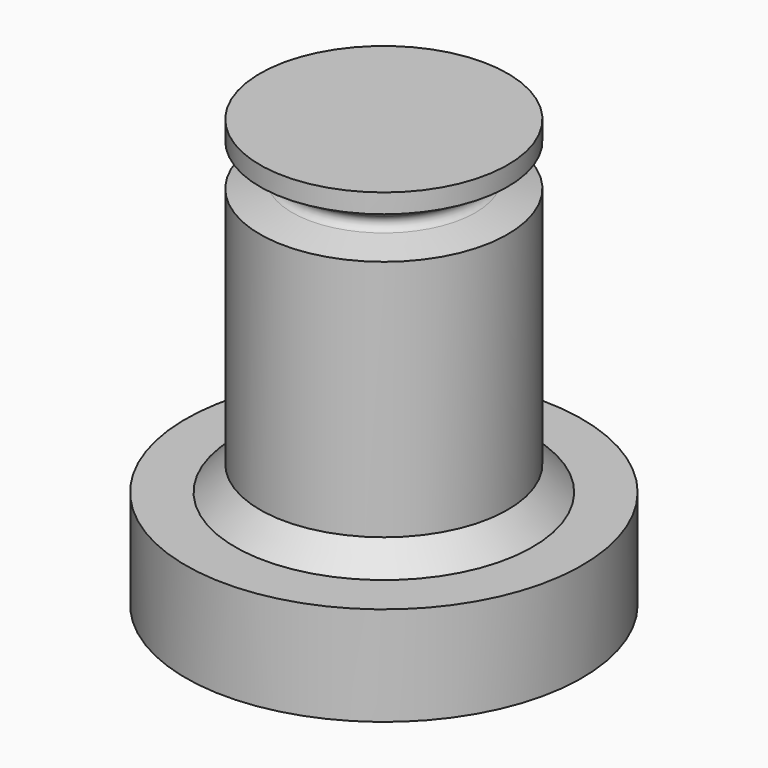
from build123d import *

# Parameters (mm, degrees)
F2_SIZE = 0.5
F3_R    = 0.15


with BuildPart() as f1:
    # F0 (on Right) → F1 (revolve)
    with BuildSketch(Plane.YZ):
        Polygon((3, 1), (3, 0), (4, 0), (4, 2), (2.5, 2), (2.5, 7.394109), (1.5, 7.662058), (2.5, 8.239408), (2.5, 8.627035), (0, 8.627035), (0, 1), align=None)
    revolve(axis=Axis((0, 0, 18.218487), (0, 0, 1)))

    # F2
    f2_edges = [f1.edges().sort_by_distance(p)[0] for p in [
        (0, -2.5, 2),
        (0, -3, 1),
    ]]
    chamfer(f2_edges, length=F2_SIZE)

    # F3
    f3_edges = [f1.edges().sort_by_distance(p)[0] for p in [
        (0, -1.5, 7.662058),
    ]]
    fillet(f3_edges, radius=F3_R)


solid = f1.part
